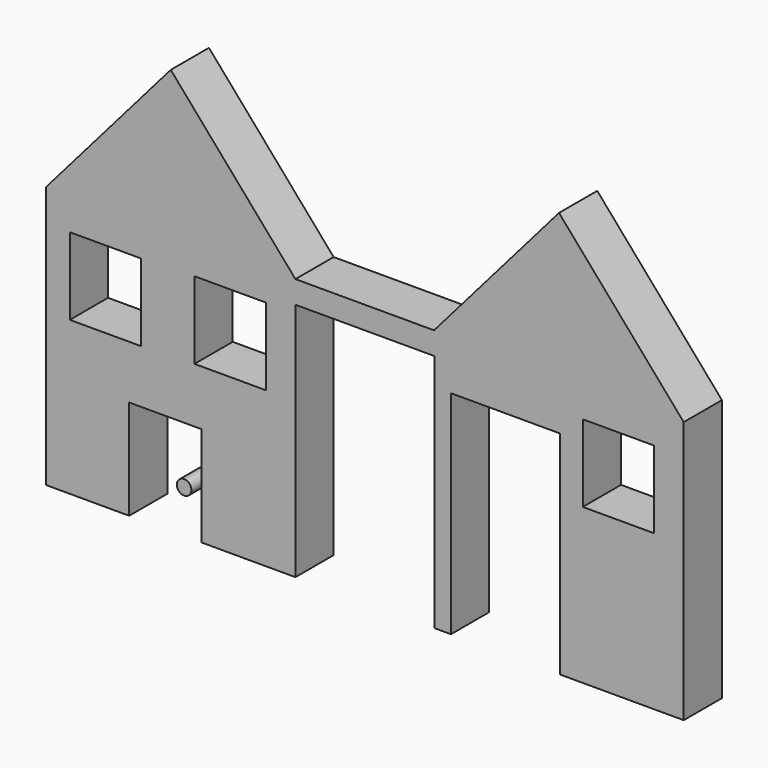
from build123d import *

# Parameters (mm, degrees)
F0_W     = 37.896203
F0_H     = 41.054218
F0_R     = 3.87179
F0_W_2   = 37.896202
F0_W_3   = 73.897578
F0_H_2   = 12.000464
F1_DEPTH = 25.4


with BuildPart() as f1:
    # F0 (on Front) → F1 (new body)
    with BuildSketch(Plane.XZ):
        Polygon((66.318356, 69.792174), (-66.318356, 69.792174), (-66.318356, -69.792174), (-22.106117, -69.792174), (-22.106117, -16.737485), (16.421689, -16.737485), (16.421689, -69.792174), (66.318356, -69.792174), (66.318356, 57.79171), align=None)
        with Locations((-34.738186, 32.211774)):
            Rectangle(F0_W, F0_H, mode=Mode.SUBTRACT)
        with Locations((31.58016, 33.159174)):
            Rectangle(F0_W, F0_H, mode=Mode.SUBTRACT)
        with Locations((7.105537, -46.975498)):
            Circle(F0_R)
        Polygon((0, 146.216184), (-66.318356, 69.792174), (66.318356, 69.792174), align=None)
        Polygon((140.215934, 69.981652), (140.215934, 69.792174), (140.215934, 57.79171), (140.215934, -69.602696), (149.058387, -69.602696), (149.058387, 43.264832), (207.165897, 43.264832), (207.165897, -69.602696), (272.852645, -69.602696), (272.852645, 69.981652), align=None)
        with Locations((238.114449, 33.348652)):
            Rectangle(F0_W_2, F0_H, mode=Mode.SUBTRACT)
        Polygon((206.53429, 146.405662), (140.215934, 69.981652), (272.852645, 69.981652), align=None)
        with Locations((103.267145, 63.791942)):
            Rectangle(F0_W_3, F0_H_2)
    extrude(amount=F1_DEPTH)


solid = f1.part
